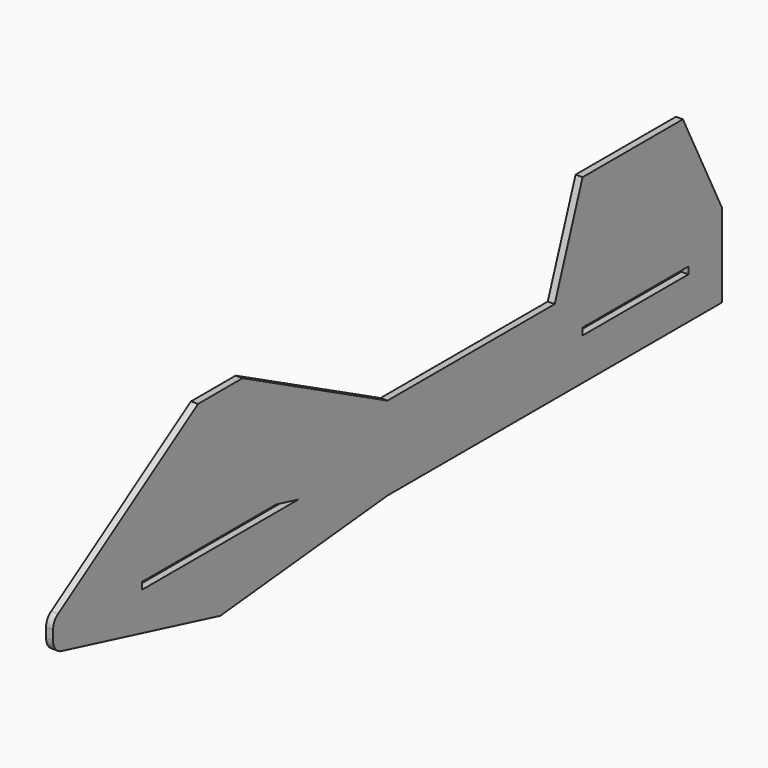
from build123d import *

# Parameters (mm, degrees)
F1_DEPTH = 2.5
F2_R     = 10
F3_R     = 10


with BuildPart() as f1:
    # F0 (on Right) → F1 (new body, symmetric)
    with BuildSketch(Plane.YZ):
        Polygon((-300, 10), (-300, 0), (-300, -10), (-150, -47.5), (0, -32.5), (300, -32.5), (300, 27.5), (265, 97.5), (175, 97.5), (150, 27.5), (0, 27.5), (-130, 94.5), (-150, 94.5), (-170, 94.5), align=None)
        Polygon((-220, -2.5), (-220, 0), (-220, 2.5), (-100, 2.5), (-80, 2.5), (-80, -2.5), align=None, mode=Mode.SUBTRACT)
        Polygon((270, 2.5), (270, 0), (270, -2.5), (175, -2.5), (175, 2.5), align=None, mode=Mode.SUBTRACT)
        Polygon((-80, 2.5), (-100, 2.5), (-80, -2.5), align=None)
    extrude(amount=F1_DEPTH, both=True)

    # F2
    f2_edges = [f1.edges().sort_by_distance(p)[0] for p in [
        (0, -300, 10),
    ]]
    fillet(f2_edges, radius=F2_R)

    # F3
    f3_edges = [f1.edges().sort_by_distance(p)[0] for p in [
        (0, -300, -10),
    ]]
    fillet(f3_edges, radius=F3_R)


solid = f1.part
